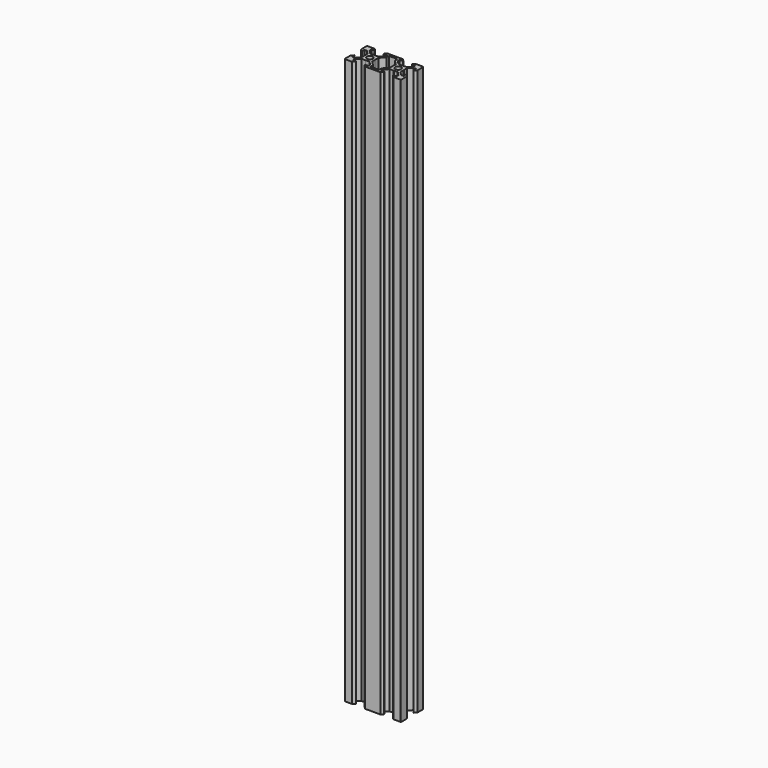
from build123d import *

# Parameters (mm, degrees)
SKETCH_R  = 2.1
PAD_DEPTH = 400


with BuildPart() as part:
    # Sketch → Pad (new body)
    with BuildSketch(Plane.XY):
        with BuildLine():
            Line((-10, 4.58), (-10, 9.5))
            ThreePointArc((-9.5, 10), (-9.853553, 9.853553), (-10, 9.5))
            Line((-9.5, 10), (-4.58, 10))
            Line((-4.58, 10), (-3.125, 8.545))
            Line((-3.125, 8.545), (-3.125, 8.2))
            Line((-5.5, 8.2), (-3.125, 8.2))
            Line((-5.5, 8.2), (-5.5, 6.56066))
            Line((-5.5, 6.56066), (-2.83934, 3.9))
            Line((-0.125, 3.9), (-2.83934, 3.9))
            ThreePointArc((-0.125, 3.9), (0, 3.775), (0.125, 3.9))
            Line((0.125, 3.9), (2.83934, 3.9))
            Line((2.83934, 3.9), (5.5, 6.56066))
            Line((5.5, 6.56066), (5.5, 8.2))
            Line((5.5, 8.2), (3.125, 8.2))
            Line((3.125, 8.2), (3.125, 8.545))
            Line((3.125, 8.545), (4.58, 10))
            Line((4.58, 10), (15.42, 10))
            Line((15.42, 10), (16.875, 8.545))
            Line((16.875, 8.545), (16.875, 8.2))
            Line((16.875, 8.2), (14.5, 8.2))
            Line((14.5, 8.2), (14.5, 6.56066))
            Line((14.5, 6.56066), (17.16066, 3.9))
            Line((17.16066, 3.9), (19.875, 3.9))
            ThreePointArc((19.875, 3.9), (20, 3.775), (20.125, 3.9))
            Line((20.125, 3.9), (22.83934, 3.9))
            Line((22.83934, 3.9), (25.5, 6.56066))
            Line((25.5, 6.56066), (25.5, 8.2))
            Line((25.5, 8.2), (23.125, 8.2))
            Line((23.125, 8.2), (23.125, 8.545))
            Line((23.125, 8.545), (24.58, 10))
            Line((24.58, 10), (29.5, 10))
            ThreePointArc((30, 9.5), (29.853554, 9.853554), (29.5, 10))
            Line((30, 9.5), (30, 4.58))
            Line((30, 4.58), (28.545, 3.125))
            Line((28.545, 3.125), (28.2, 3.125))
            Line((28.2, 3.125), (28.2, 5.5))
            Line((28.2, 5.5), (26.560661, 5.5))
            Line((26.560661, 5.5), (23.9, 2.83934))
            Line((23.9, 2.83934), (23.9, 0.125))
            ThreePointArc((23.9, 0.125), (23.775, 2e-06), (23.899997, -0.125))
            Line((23.899997, -2.83934), (23.899997, -0.125))
            Line((26.560658, -5.5), (23.899997, -2.83934))
            Line((28.199997, -5.5), (26.560658, -5.5))
            Line((28.199997, -3.125), (28.199997, -5.5))
            Line((28.544997, -3.125), (28.199997, -3.125))
            Line((29.999997, -4.58), (28.544997, -3.125))
            Line((29.999997, -9.5), (29.999997, -4.58))
            ThreePointArc((29.5, -10), (29.853552, -9.853552), (29.999997, -9.5))
            Line((24.58, -10), (29.5, -10))
            Line((23.125, -8.545), (24.58, -10))
            Line((23.125, -8.2), (23.125, -8.545))
            Line((25.5, -8.2), (23.125, -8.2))
            Line((25.5, -6.56066), (25.5, -8.2))
            Line((22.83934, -3.9), (25.5, -6.56066))
            Line((20.125, -3.9), (22.83934, -3.9))
            ThreePointArc((20.125, -3.9), (20, -3.775), (19.875, -3.9))
            Line((17.16066, -3.9), (19.875, -3.9))
            Line((14.5, -6.56066), (17.16066, -3.9))
            Line((14.5, -8.2), (14.5, -6.56066))
            Line((16.875, -8.2), (14.5, -8.2))
            Line((16.875, -8.545), (16.875, -8.2))
            Line((15.42, -10), (16.875, -8.545))
            Line((4.58, -10), (15.42, -10))
            Line((4.58, -10), (3.125, -8.545))
            Line((3.125, -8.545), (3.125, -8.2))
            Line((3.125, -8.2), (5.5, -8.2))
            Line((5.5, -8.2), (5.5, -6.56066))
            Line((2.83934, -3.9), (5.5, -6.56066))
            Line((0.125, -3.9), (2.83934, -3.9))
            ThreePointArc((0.125, -3.9), (0, -3.775), (-0.125, -3.9))
            Line((-0.125, -3.9), (-2.83934, -3.9))
            Line((-2.83934, -3.9), (-5.5, -6.56066))
            Line((-5.5, -6.56066), (-5.5, -8.2))
            Line((-5.5, -8.2), (-3.125, -8.2))
            Line((-3.125, -8.545), (-3.125, -8.2))
            Line((-4.58, -10), (-3.125, -8.545))
            Line((-9.5, -10), (-4.58, -10))
            ThreePointArc((-10, -9.5), (-9.853553, -9.853553), (-9.5, -10))
            Line((-10, -4.58), (-10, -9.5))
            Line((-8.545, -3.125), (-10, -4.58))
            Line((-8.2, -3.125), (-8.545, -3.125))
            Line((-8.2, -5.5), (-8.2, -3.125))
            Line((-6.56066, -5.5), (-8.2, -5.5))
            Line((-3.9, -2.83934), (-6.56066, -5.5))
            Line((-3.9, -0.125), (-3.9, -2.83934))
            ThreePointArc((-3.9, -0.125), (-3.775, 0), (-3.9, 0.125))
            Line((-3.9, 2.83934), (-3.9, 0.125))
            Line((-6.56066, 5.5), (-3.9, 2.83934))
            Line((-8.2, 5.5), (-6.56066, 5.5))
            Line((-8.2, 5.5), (-8.2, 3.125))
            Line((-8.545, 3.125), (-8.2, 3.125))
            Line((-10, 4.58), (-8.545, 3.125))
        make_face()
        Circle(SKETCH_R, mode=Mode.SUBTRACT)
        with Locations((20, 0)):
            Circle(SKETCH_R, mode=Mode.SUBTRACT)
        with BuildLine():
            Line((7, 5.93934), (3.9, 2.83934))
            Line((3.9, 2.83934), (3.9, 0.125))
            ThreePointArc((3.9, 0.125), (3.775, 0), (3.9, -0.125))
            Line((3.9, -0.125), (3.9, -2.83934))
            Line((3.9, -2.83934), (7, -5.93934))
            Line((7, -5.93934), (7, -8.2))
            Line((7, -8.2), (13, -8.2))
            Line((13, -8.2), (13, -5.93934))
            Line((13, -5.93934), (16.1, -2.83934))
            Line((16.1, -2.83934), (16.1, -0.125))
            ThreePointArc((16.1, -0.125), (16.224999, 0), (16.1, 0.125))
            Line((16.1, 2.83934), (16.1, 0.125))
            Line((13, 5.93934), (16.1, 2.83934))
            Line((13, 8.2), (13, 5.93934))
            Line((7, 8.2), (13, 8.2))
            Line((7, 5.93934), (7, 8.2))
        make_face(mode=Mode.SUBTRACT)
    extrude(amount=PAD_DEPTH)


solid = part.part
